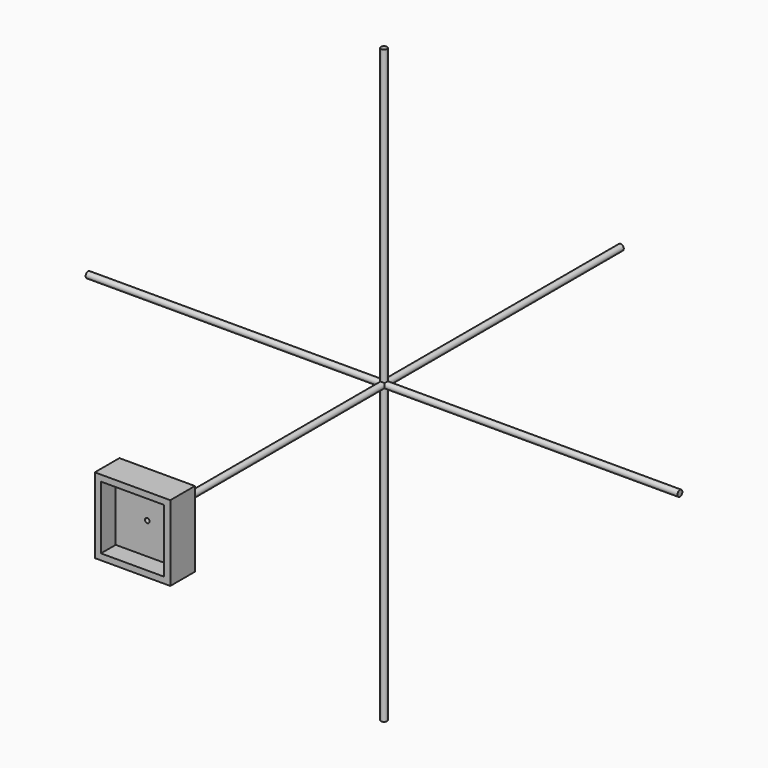
from build123d import *

# Parameters (mm, degrees)
F2_R      = 6.35
F4_DEPTH  = 609.6
F3_R      = 6.35
F5_DEPTH  = 609.6
F1_R      = 6.35
F6_DEPTH  = 609.6
F7_W      = 155.56
F7_H      = 155.56
F8_DEPTH  = 25.4
F9_W      = 155.56
F9_H      = 155.56
F9_W_2    = 130.16
F9_H_2    = 130.16
F11_DEPTH = 38
F12_R     = 4.7625
F13_DEPTH = 1219.2


with BuildPart() as f4:
    # F2 (on Front) → F4 (new body, symmetric)
    with BuildSketch(Plane.XZ):
        Circle(F2_R)
    extrude(amount=F4_DEPTH, both=True)

    # F3 (on Right) → F5 (join, symmetric)
    with BuildSketch(Plane.YZ):
        Circle(F3_R)
    extrude(amount=F5_DEPTH, both=True)

    # F1 (on Top) → F6 (join, symmetric)
    with BuildSketch(Plane.XY):
        Circle(F1_R)
    extrude(amount=F6_DEPTH, both=True)

    # F7 (on face) → F8 (join)
    with BuildSketch(Plane.XZ.offset(609.6)):
        Rectangle(F7_W, F7_H)
    extrude(amount=-F8_DEPTH)

    # F9 (on face) → F11 (join)
    with BuildSketch(Plane.XZ.offset(609.6)):
        Rectangle(F9_W, F9_H)
        Rectangle(F9_W_2, F9_H_2, mode=Mode.SUBTRACT)
    extrude(amount=F11_DEPTH)

    # F12 (on face) → F13 (cut)
    with BuildSketch(Plane.XZ.offset(609.6)):
        Circle(F12_R)
    extrude(amount=-F13_DEPTH, mode=Mode.SUBTRACT)


solid = f4.part
